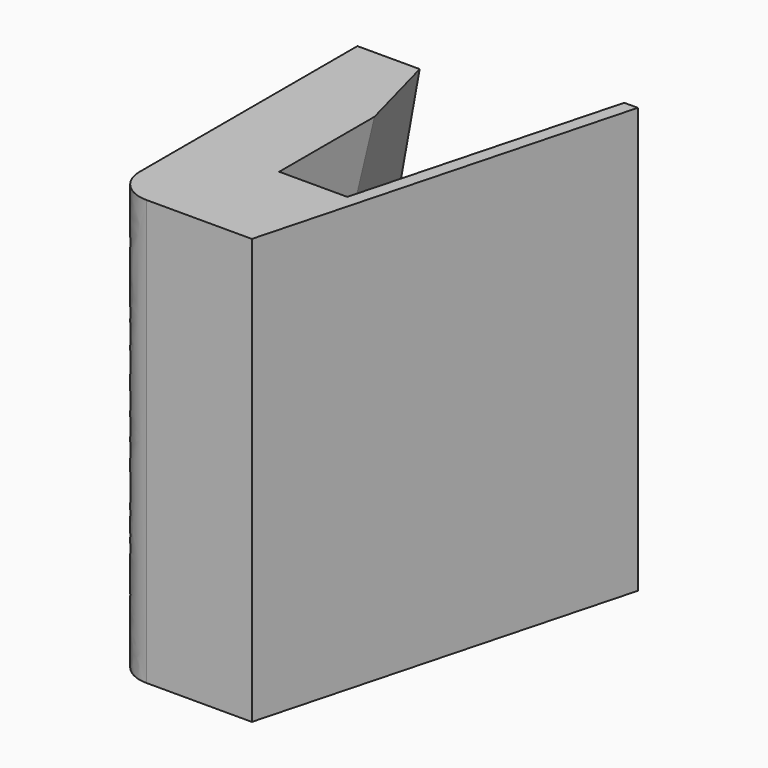
from build123d import *

# Parameters (mm, degrees)
F4_R = 2


with BuildPart() as f3:
    # F0 (on Top) → F3 section 0
    with BuildSketch(Plane.XY):
        Polygon((0, 18), (0, 0), (8.1923048454, 0), (13.8863238377, 21.2503681784), (13.0863238377, 21.2503681784), (9, 6), (5, 6), (5, 13), (3.6602540378, 18), align=None)
    # F2 (on offset) → F3 section 1
    with BuildSketch(Plane.XY.offset(-25)):
        Polygon((0, 13), (0, 0), (8.1923048454, 0), (13.8863238377, 21.2503681784), (13.0863238377, 21.2503681784), (7.7942286341, 1.5), (5, 1.5), (5, 3.6698729811), (2.5, 13), align=None)
    loft()

    # F4
    f4_edges = [f3.edges().sort_by_distance(p)[0] for p in [
        (0, 0, -12.5),
    ]]
    fillet(f4_edges, radius=F4_R)


solid = f3.part
